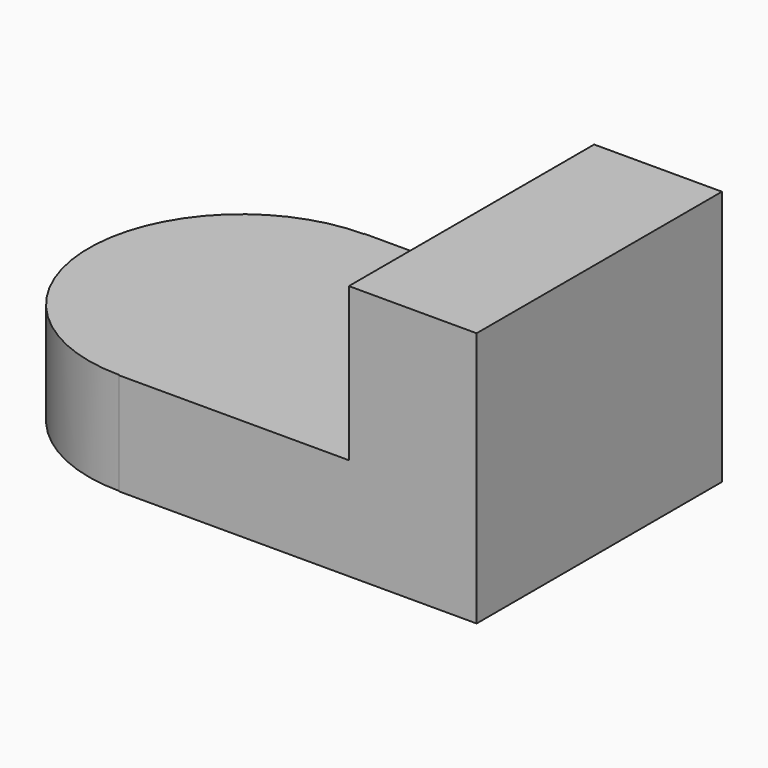
from build123d import *

# Parameters (mm, degrees)
F1_DEPTH = 20
F2_W     = 25
F2_H     = 60
F3_DEPTH = 30


with BuildPart() as f1:
    # F0 (on Top) → F1 (new body)
    with BuildSketch(Plane.XY):
        with BuildLine():
            Line((0, 0), (-69.999899, 0))
            Line((-69.999899, 0), (-69.999899, -0.119169))
            ThreePointArc((-69.999899, -0.119169), (-99.88073, -30), (-69.999899, -59.880831))
            Line((-69.999899, -59.880831), (-69.999899, -60))
            Line((-69.999899, -60), (0, -60))
            Line((0, -60), (0, 0))
        make_face()
    extrude(amount=F1_DEPTH)

    # F2 (on face) → F3 (join)
    with BuildSketch(Plane.XY.offset(20)):
        with Locations((-12.5, -30)):
            Rectangle(F2_W, F2_H)
    extrude(amount=F3_DEPTH)


solid = f1.part
